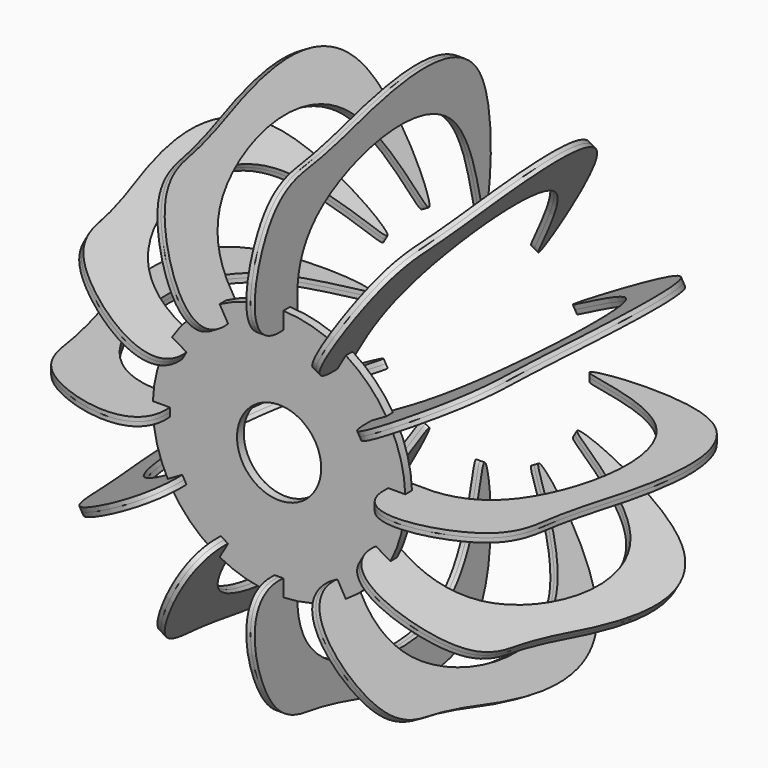
from build123d import *

# Parameters (mm, degrees)
F0_R     = 20
F1_DEPTH = 2
F3_DEPTH = 2
F4_COUNT = 12


with BuildPart() as f1:
    # F0 (on Front) → F1 (new body, symmetric)
    with BuildSketch(Plane.XZ):
        with BuildLine():
            Line((-2, 55.9666574023), (-2, 59.9666574023))
            ThreePointArc((-2, 59.9666574023), (-15.5291427062, 57.9555495773), (-28.2512778936, 52.9326486904))
            Line((-28.2512778936, 52.9326486904), (-26.2512778936, 49.4685470753))
            Line((-26.2512778936, 49.4685470753), (-29.7153795087, 47.4685470753))
            Line((-29.7153795087, 47.4685470753), (-31.7153795087, 50.9326486904))
            ThreePointArc((-31.7153795087, 50.9326486904), (-42.4264068712, 42.4264068712), (-50.9326486904, 31.7153795087))
            Line((-50.9326486904, 31.7153795087), (-47.4685470753, 29.7153795087))
            Line((-47.4685470753, 29.7153795087), (-49.4685470753, 26.2512778936))
            Line((-49.4685470753, 26.2512778936), (-52.9326486904, 28.2512778936))
            ThreePointArc((-52.9326486904, 28.2512778936), (-57.9555495773, 15.5291427062), (-59.9666574023, 2))
            Line((-59.9666574023, 2), (-55.9666574023, 2))
            Line((-55.9666574023, 2), (-55.9666574023, -2))
            Line((-55.9666574023, -2), (-59.9666574023, -2))
            ThreePointArc((-59.9666574023, -2), (-57.9555495773, -15.5291427062), (-52.9326486904, -28.2512778936))
            Line((-52.9326486904, -28.2512778936), (-49.4685470753, -26.2512778936))
            Line((-49.4685470753, -26.2512778936), (-47.4685470753, -29.7153795087))
            Line((-47.4685470753, -29.7153795087), (-50.9326486904, -31.7153795087))
            ThreePointArc((-50.9326486904, -31.7153795087), (-42.4264068712, -42.4264068712), (-31.7153795087, -50.9326486904))
            Line((-31.7153795087, -50.9326486904), (-29.7153795087, -47.4685470753))
            Line((-29.7153795087, -47.4685470753), (-26.2512778936, -49.4685470753))
            Line((-26.2512778936, -49.4685470753), (-28.2512778936, -52.9326486904))
            ThreePointArc((-28.2512778936, -52.9326486904), (-15.5291427062, -57.9555495773), (-2, -59.9666574023))
            Line((-2, -59.9666574023), (-2, -55.9666574023))
            Line((-2, -55.9666574023), (2, -55.9666574023))
            Line((2, -55.9666574023), (2, -59.9666574023))
            ThreePointArc((2, -59.9666574023), (15.5291427062, -57.9555495773), (28.2512778936, -52.9326486904))
            Line((28.2512778936, -52.9326486904), (26.2512778936, -49.4685470753))
            Line((26.2512778936, -49.4685470753), (29.7153795087, -47.4685470753))
            Line((29.7153795087, -47.4685470753), (31.7153795087, -50.9326486904))
            ThreePointArc((31.7153795087, -50.9326486904), (42.4264068712, -42.4264068712), (50.9326486904, -31.7153795087))
            Line((50.9326486904, -31.7153795087), (47.4685470753, -29.7153795087))
            Line((47.4685470753, -29.7153795087), (49.4685470753, -26.2512778936))
            Line((49.4685470753, -26.2512778936), (52.9326486904, -28.2512778936))
            ThreePointArc((52.9326486904, -28.2512778936), (57.9555495773, -15.5291427062), (59.9666574023, -2))
            Line((59.9666574023, -2), (55.9666574023, -2))
            Line((55.9666574023, -2), (55.9666574023, 2))
            Line((55.9666574023, 2), (59.9666574023, 2))
            ThreePointArc((59.9666574023, 2), (57.9555495773, 15.5291427062), (52.9326486904, 28.2512778936))
            Line((52.9326486904, 28.2512778936), (49.4685470753, 26.2512778936))
            Line((49.4685470753, 26.2512778936), (47.4685470753, 29.7153795087))
            Line((47.4685470753, 29.7153795087), (50.9326486904, 31.7153795087))
            ThreePointArc((50.9326486904, 31.7153795087), (42.4264068712, 42.4264068712), (31.7153795087, 50.9326486904))
            Line((31.7153795087, 50.9326486904), (29.7153795087, 47.4685470753))
            Line((29.7153795087, 47.4685470753), (26.2512778936, 49.4685470753))
            Line((26.2512778936, 49.4685470753), (28.2512778936, 52.9326486904))
            ThreePointArc((28.2512778936, 52.9326486904), (15.5291427062, 57.9555495773), (2, 59.9666574023))
            Line((2, 59.9666574023), (2, 55.9666574023))
            Line((2, 55.9666574023), (-2, 55.9666574023))
        make_face()
        Circle(F0_R, mode=Mode.SUBTRACT)
    extrude(amount=F1_DEPTH, both=True)


with BuildPart() as f3:
    # F2 (on Top) → F3 (new body, symmetric)
    with BuildSketch(Plane.XY):
        with BuildLine():
            add(Edge.make_bspline(
                [(52.0884524451, 2.1218318378), (52.7413530235, 7.2704806809), (65.2117791468, 4.7660502001), (102.8716886945, 12.4442319676), (124.4494266374, 111.9757914968), (16.2604730686, 116.2116451722), (129.0812732828, 129.5762356253), (129.0178518225, 62.980436736), (112.6440890077, 22.024177456), (113.7811980064, -13.5668077967), (49.4789864327, -27.1799783925), (51.9669882968, -1.8763235444)],
                knots=[0, 0, 0, 0, 0.0567103495, 0.1554763908, 0.3029839967, 0.4223257958, 0.5511861477, 0.6721450523, 0.7853393614, 0.8827793056, 1, 1, 1, 1], degree=3))
            Line((52.0884524451, 2.1218318378), (56.0866078274, 2.0003676896))
            Line((56.0866078274, 2.0003676896), (55.9651436791, -1.9977876927))
            Line((55.9651436791, -1.9977876927), (51.9669882968, -1.8763235444))
        make_face()
    extrude(amount=F3_DEPTH, both=True)


with BuildPart() as f4_1:
    # F4: instance of F3
    add(f3.part.rotate(Axis((0, 2, 0), (0, -1, 0)), 1 * 360 / F4_COUNT))


with BuildPart() as f4_2:
    # F4: instance of F3
    add(f3.part.rotate(Axis((0, 2, 0), (0, -1, 0)), 2 * 360 / F4_COUNT))


with BuildPart() as f4_3:
    # F4: instance of F3
    add(f3.part.rotate(Axis((0, 2, 0), (0, -1, 0)), 3 * 360 / F4_COUNT))


with BuildPart() as f4_4:
    # F4: instance of F3
    add(f3.part.rotate(Axis((0, 2, 0), (0, -1, 0)), 4 * 360 / F4_COUNT))


with BuildPart() as f4_5:
    # F4: instance of F3
    add(f3.part.rotate(Axis((0, 2, 0), (0, -1, 0)), 5 * 360 / F4_COUNT))


with BuildPart() as f4_6:
    # F4: instance of F3
    add(f3.part.rotate(Axis((0, 2, 0), (0, -1, 0)), 6 * 360 / F4_COUNT))


with BuildPart() as f4_7:
    # F4: instance of F3
    add(f3.part.rotate(Axis((0, 2, 0), (0, -1, 0)), 7 * 360 / F4_COUNT))


with BuildPart() as f4_8:
    # F4: instance of F3
    add(f3.part.rotate(Axis((0, 2, 0), (0, -1, 0)), 8 * 360 / F4_COUNT))


with BuildPart() as f4_9:
    # F4: instance of F3
    add(f3.part.rotate(Axis((0, 2, 0), (0, -1, 0)), 9 * 360 / F4_COUNT))


with BuildPart() as f4_10:
    # F4: instance of F3
    add(f3.part.rotate(Axis((0, 2, 0), (0, -1, 0)), 10 * 360 / F4_COUNT))


with BuildPart() as f4_11:
    # F4: instance of F3
    add(f3.part.rotate(Axis((0, 2, 0), (0, -1, 0)), 11 * 360 / F4_COUNT))


solid = Compound([f1.part, f3.part, f4_1.part, f4_2.part, f4_3.part, f4_4.part, f4_5.part, f4_6.part, f4_7.part, f4_8.part, f4_9.part, f4_10.part, f4_11.part])
